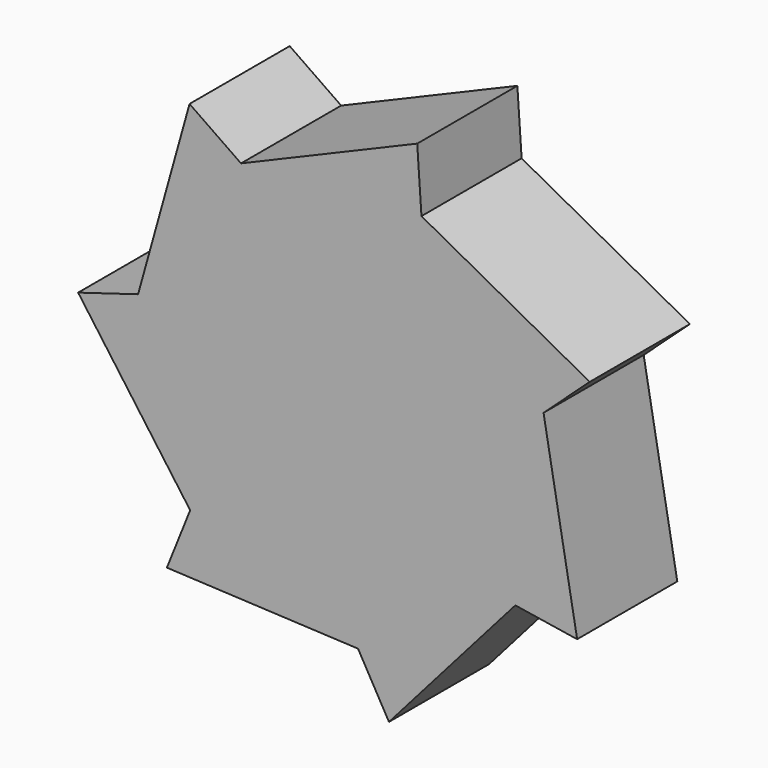
from build123d import *

# Parameters (mm, degrees)
F1_DEPTH = 25.4


with BuildPart() as f1:
    # F0 (on Front) → F1 (new body)
    with BuildSketch(Plane.XZ):
        Polygon((17.3676, 4.654796), (10.548249, 42.882821), (4.823116, 6.63619), align=None)
        Polygon((-20.812961, -22.530177), (4.823116, 6.63619), (-27.085203, -11.487125), align=None)
        Polygon((-65.872219, -9.628965), (-27.085203, -11.487125), (-61.149093, 2.160101), align=None)
        Polygon((-83.879634, 33.643555), (-61.149093, 2.160101), (-71.71775, 37.301229), align=None)
        Polygon((-71.71775, 37.301229), (-50.832759, 67.474272), (-61.275255, 74.702294), align=None)
        Polygon((-50.832759, 67.474272), (-14.220945, 69.958314), (-15.08064, 82.629184), align=None)
        Polygon((-14.220945, 69.958314), (10.548249, 42.882821), (19.918723, 51.455114), align=None)
        Polygon((4.823116, 6.63619), (10.548249, 42.882821), (-14.220945, 69.958314), (-50.832759, 67.474272), (-71.71775, 37.301229), (-61.149093, 2.160101), (-27.085203, -11.487125), align=None)
    extrude(amount=F1_DEPTH)


solid = f1.part
